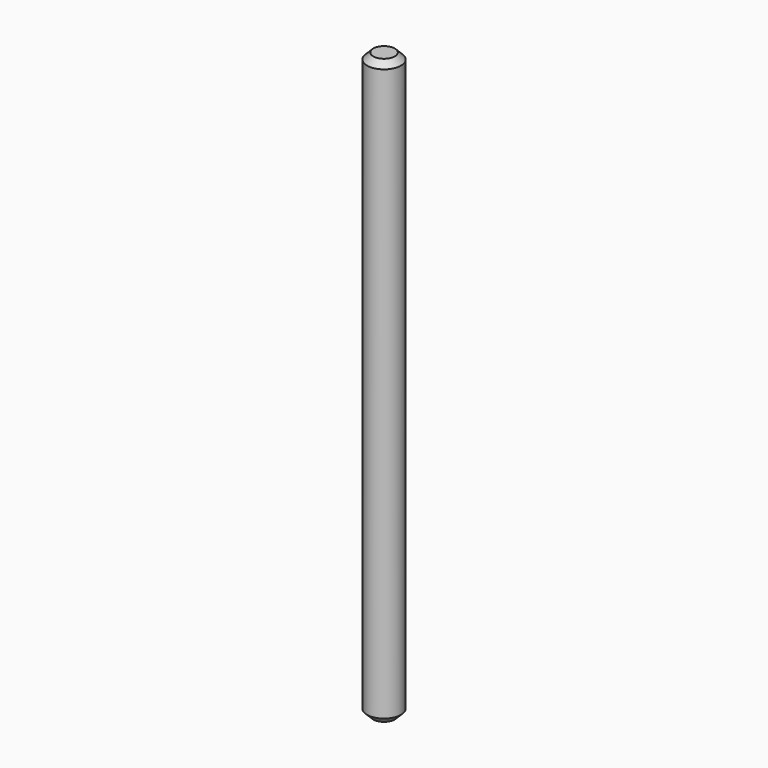
from build123d import *

# Parameters (mm, degrees)
F0_R     = 2.75
F1_DEPTH = 47.5
F2_SIZE  = 1


with BuildPart() as f1:
    # F0 (on Top) → F1 (new body, symmetric)
    with BuildSketch(Plane.XY):
        Circle(F0_R)
    extrude(amount=F1_DEPTH, both=True)

    # F2
    f2_edges = [f1.edges().sort_by_distance(p)[0] for p in [
        (-2.75, 0, 47.5),
        (-2.75, 0, -47.5),
    ]]
    chamfer(f2_edges, length=F2_SIZE)


solid = f1.part
